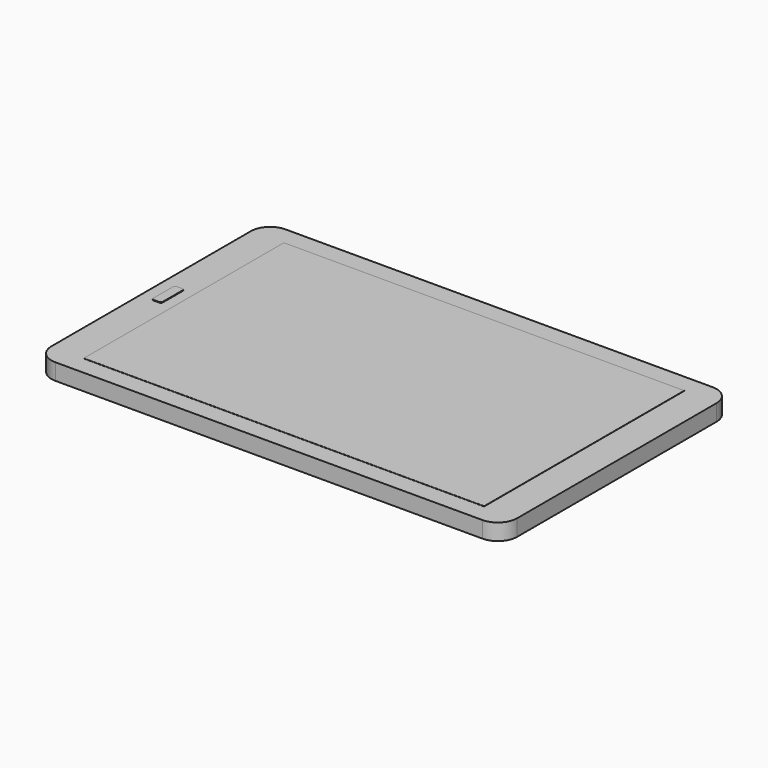
from build123d import *

# Parameters (mm, degrees)
F1_DEPTH = 8.5
F3_W     = 208
F3_H     = 130
F4_DEPTH = 0.5
F7_DEPTH = 0.5


with BuildPart() as f1:
    # F0 (on Top) → F1 (new body)
    with BuildSketch(Plane.XY):
        with BuildLine():
            ThreePointArc((120.95, 64.75), (118.021068, 71.821068), (110.95, 74.75))
            Line((110.95, 74.75), (-110.95, 74.75))
            ThreePointArc((-110.95, 74.75), (-118.021068, 71.821068), (-120.95, 64.75))
            Line((-120.95, 64.75), (-120.95, -64.75))
            ThreePointArc((-120.95, -64.75), (-118.021068, -71.821068), (-110.95, -74.75))
            Line((-110.95, -74.75), (110.95, -74.75))
            ThreePointArc((110.95, -74.75), (118.021068, -71.821068), (120.95, -64.75))
            Line((120.95, -64.75), (120.95, 64.75))
        make_face()
    extrude(amount=F1_DEPTH)


with BuildPart() as f4:
    # F3 (on offset) → F4 (new body)
    with BuildSketch(Plane.XY.offset(25)):
        Rectangle(F3_W, F3_H)
    extrude(amount=F4_DEPTH)


with BuildPart() as f4_1:
    # F5: moved
    add(f4.part.moved(Location((0, 0, -16.9))))


with BuildPart() as f7:
    # F6 (on offset) → F7 (new body)
    with BuildSketch(Plane.XY.offset(25)):
        with BuildLine():
            Line((-26.518753, 0), (-23.518753, 0))
            ThreePointArc((-23.518753, 0), (-22.811646, 0.292893), (-22.518753, 1))
            Line((-22.518753, 1), (-22.518753, 14))
            ThreePointArc((-22.518753, 14), (-22.811646, 14.707107), (-23.518753, 15))
            Line((-23.518753, 15), (-26.518753, 15))
            ThreePointArc((-26.518753, 15), (-27.225859, 14.707107), (-27.518753, 14))
            Line((-27.518753, 14), (-27.518753, 1))
            ThreePointArc((-27.518753, 1), (-27.225859, 0.292893), (-26.518753, 0))
        make_face()
    extrude(amount=F7_DEPTH)


with BuildPart() as f7_1:
    # F8: moved
    add(f7.part.moved(Location((-87.2, -7.5, -16.7))))


solid = Compound([f1.part, f4_1.part, f7_1.part])
